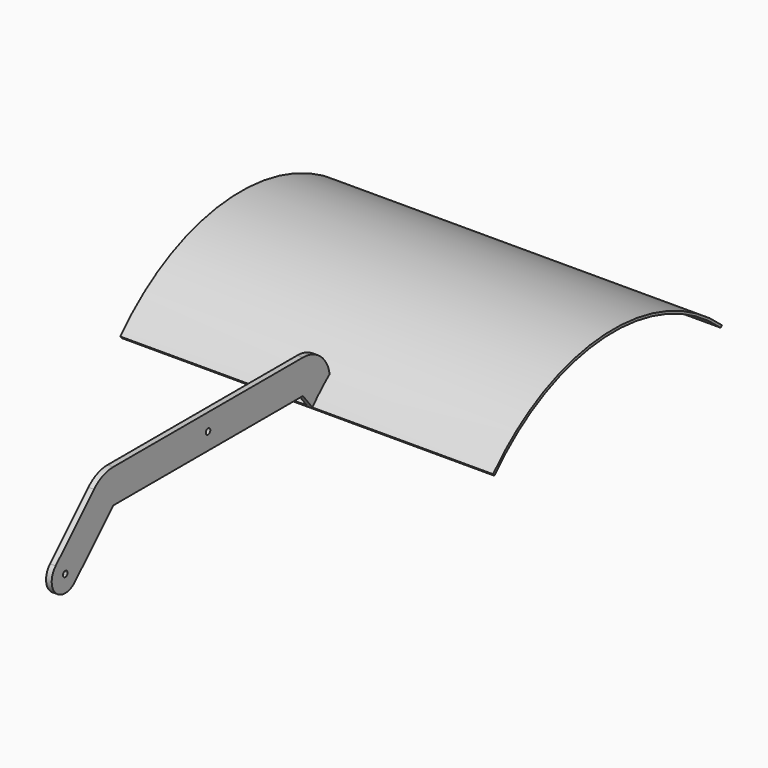
from build123d import *

# Parameters (mm, degrees)
F0_W          = 533.4
F0_H          = 76.2
F0_R          = 6.35
F0_W_2        = 76.2
F0_H_2        = 50.8
F1_DEPTH      = 12.7
F3_DEPTH      = 406.4
F3_DEPTH_BACK = 431.8
F5_DEPTH      = 25.4


with BuildPart() as f1:
    # F0 (on Right) → F1 (new body)
    with BuildSketch(Plane.YZ):
        Rectangle(F0_W, F0_H)
        Circle(F0_R, mode=Mode.SUBTRACT)
        with BuildLine():
            Line((-266.7, -38.1), (-266.7, 38.1))
            ThreePointArc((-266.7, 38.1), (-295.8604775462, 32.2996203774), (-320.5815367264, 15.7815367264))
            Line((-320.5815367264, 15.7815367264), (-266.7, -38.1))
        make_face()
        with BuildLine():
            ThreePointArc((342.9, -38.1), (320.5815367264, 15.7815367264), (266.7, 38.1))
            Line((266.7, 38.1), (266.7, -38.1))
            Line((266.7, -38.1), (342.9, -38.1))
        make_face()
        with BuildLine():
            Line((-374.4630734528, -145.8630734528), (-266.7, -38.1))
            Line((-266.7, -38.1), (-320.5815367264, 15.7815367264))
            Line((-320.5815367264, 15.7815367264), (-428.3446101792, -91.9815367264))
            Line((-428.3446101792, -91.9815367264), (-405.8939698766, -114.4321770291))
            ThreePointArc((-405.8939698766, -114.4321770291), (-398.9738020205, -113.0556700582), (-395.053841816, -118.9223050896))
            ThreePointArc((-395.053841816, -118.9223050896), (-395.5372067846, -121.3523448851), (-396.9137137555, -123.4124331502))
            Line((-396.9137137555, -123.4124331502), (-374.4630734528, -145.8630734528))
        make_face()
        with Locations((304.8, -63.5)):
            Rectangle(F0_W_2, F0_H_2)
        with BuildLine():
            ThreePointArc((-428.3446101792, -91.9815367264), (-428.3446101792, -145.8630734528), (-374.4630734528, -145.8630734528))
            Line((-374.4630734528, -145.8630734528), (-396.9137137555, -123.4124331502))
            ThreePointArc((-396.9137137555, -123.4124331502), (-405.8939698766, -123.4124331502), (-405.8939698766, -114.4321770291))
            Line((-405.8939698766, -114.4321770291), (-428.3446101792, -91.9815367264))
        make_face()
    extrude(amount=F1_DEPTH)

    # F2 (on face) → F3 (join, two sides)
    with BuildSketch(Plane.YZ.offset(12.7)) as f3_sk:
        with BuildLine():
            Line((932.9831600189, -41.8606996536), (936.4036917686, -38.1))
            ThreePointArc((936.4036917686, -38.1), (607.84366322, 77.5570236238), (293.0137515068, -71.4744031429))
            Line((293.0137515068, -71.4744031429), (297.0012426376, -76.2937888503))
            ThreePointArc((297.0012426376, -76.2937888503), (607.900564523, 71.9058559585), (932.9831600189, -41.8606996536))
        make_face()
    extrude(amount=F3_DEPTH)
    extrude(f3_sk.sketch, amount=-F3_DEPTH_BACK)

    # F4 (on face) → F5 (cut)
    with BuildSketch(Plane.YZ.offset(12.7)):
        Polygon((266.7, -88.9), (342.9, -88.9), (347.1251726151, -88.7651666999), (347.1251726151, -30.6838881224), (342.6863394703, -32.397700998), (324.4524045918, -48.4607793352), (297.0012426376, -76.2937888503), (266.7, -38.1), align=None)
    extrude(amount=-F5_DEPTH, mode=Mode.SUBTRACT)


solid = f1.part
